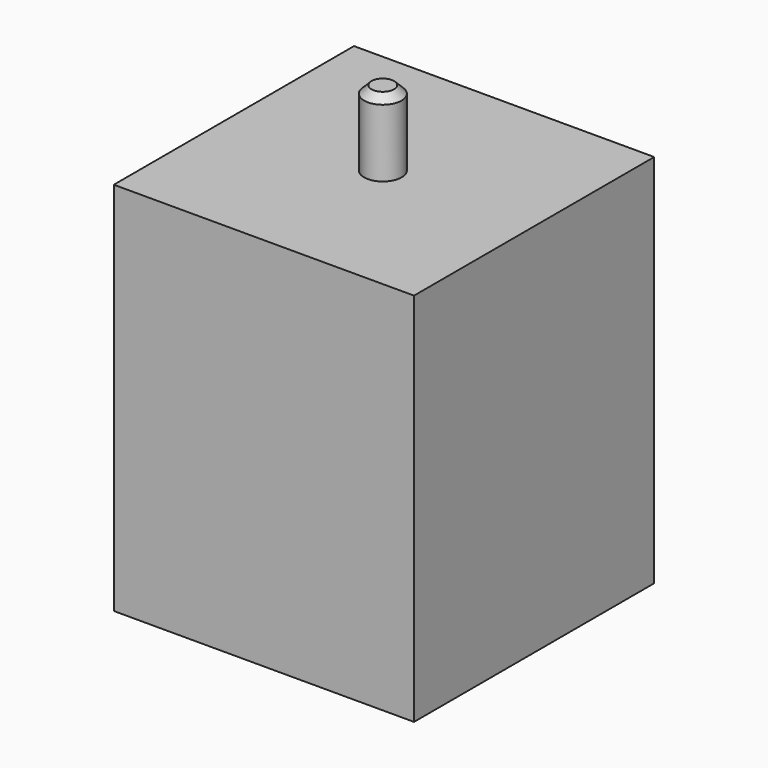
from build123d import *

# Parameters (mm, degrees)
F0_W     = 80
F0_H     = 80
F1_DEPTH = 100
F2_R     = 5
F3_DEPTH = 20
F4_SIZE  = 2


with BuildPart() as f1:
    # F0 (on Top) → F1 (new body)
    with BuildSketch(Plane.XY):
        with Locations((0.311533, 2.066482)):
            Rectangle(F0_W, F0_H)
    extrude(amount=F1_DEPTH)

    # F2 (on face) → F3 (join)
    with BuildSketch(Plane.XY.offset(100)):
        with Locations((0, 2.066482)):
            Circle(F2_R)
    extrude(amount=F3_DEPTH)

    # F4
    f4_edges = [f1.edges().sort_by_distance(p)[0] for p in [
        (-5, 2.066482, 120),
    ]]
    chamfer(f4_edges, length=F4_SIZE)


solid = f1.part
